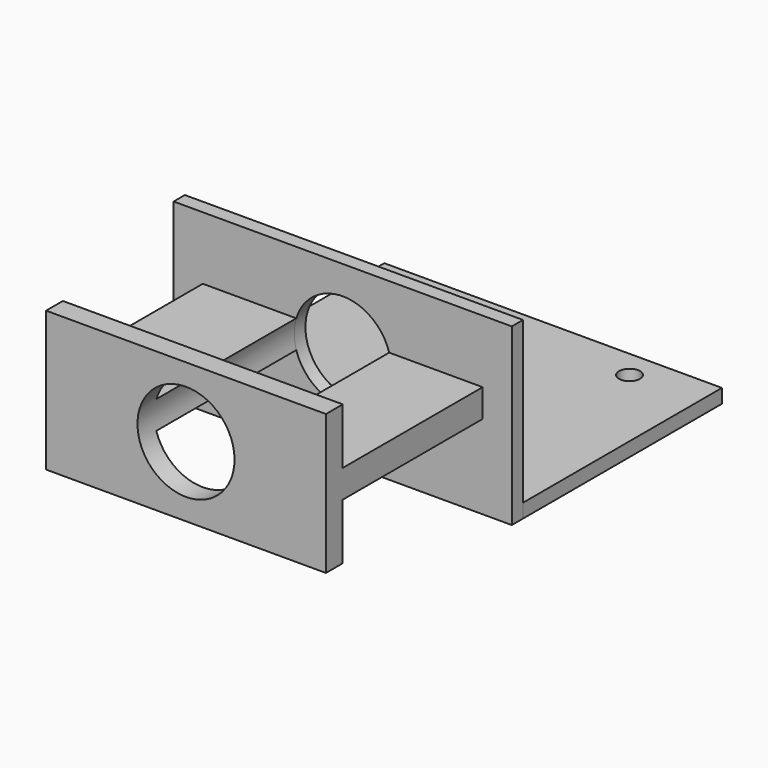
from build123d import *

# Parameters (mm, degrees)
F0_W      = 48.26
F0_H      = 35.56
F0_R      = 1.5
F1_DEPTH  = 2
F2_W      = 48.329203
F2_H      = 2
F3_DEPTH  = 25
F5_W      = 18
F5_H      = 9
F6_DEPTH  = 25
F7_W      = 40
F7_H      = 4
F8_DEPTH  = 25
F9_W      = 40
F9_H      = 20
F10_DEPTH = 3
F11_R     = 6.935469
F12_DEPTH = 30
F13_DEPTH = 25


with BuildPart() as f1:
    # F0 (on Top) → F1 (new body)
    with BuildSketch(Plane.XY):
        with Locations((0.875274, -1.180254)):
            Rectangle(F0_W, F0_H)
        with Locations((-13.254726, -14.960254)):
            Circle(F0_R, mode=Mode.SUBTRACT)
        with Locations((15.005274, -14.960254)):
            Circle(F0_R, mode=Mode.SUBTRACT)
        with Locations((-13.254726, 12.599746)):
            Circle(F0_R, mode=Mode.SUBTRACT)
        with Locations((15.005274, 12.599746)):
            Circle(F0_R, mode=Mode.SUBTRACT)
    extrude(amount=F1_DEPTH)

    # F2 (on Top) → F3 (join)
    with BuildSketch(Plane.XY):
        with Locations((0.840673, -19.942636)):
            Rectangle(F2_W, F2_H)
    extrude(amount=F3_DEPTH)

    # F5 (on face) → F6 (cut)
    with BuildSketch(Plane(origin=(0, 0, 0), x_dir=(1, 0, 0), z_dir=(0, 0, -1))):
        with Locations((0.875274, 14.442636)):
            Rectangle(F5_W, F5_H)
    extrude(amount=-F6_DEPTH, mode=Mode.SUBTRACT)

    # F7 (on face) → F8 (join)
    with BuildSketch(Plane.XZ.offset(20.942636)):
        with Locations((0.840672, 14)):
            Rectangle(F7_W, F7_H)
    extrude(amount=F8_DEPTH)

    # F9 (on face) → F10 (join)
    with BuildSketch(Plane.XZ.offset(45.942636)):
        with Locations((0.840672, 14)):
            Rectangle(F9_W, F9_H)
    extrude(amount=F10_DEPTH)

    # F11 (on face) → F12 (cut)
    with BuildSketch(Plane.XZ.offset(20.942636)):
        with Locations((0.840672, 14)):
            Circle(F11_R)
    extrude(amount=F12_DEPTH, mode=Mode.SUBTRACT)

    # F11 (on face) → F13 (cut)
    with BuildSketch(Plane.XZ.offset(20.942636)):
        with Locations((0.840672, 14)):
            Circle(F11_R)
    extrude(amount=-F13_DEPTH, mode=Mode.SUBTRACT)


solid = f1.part
